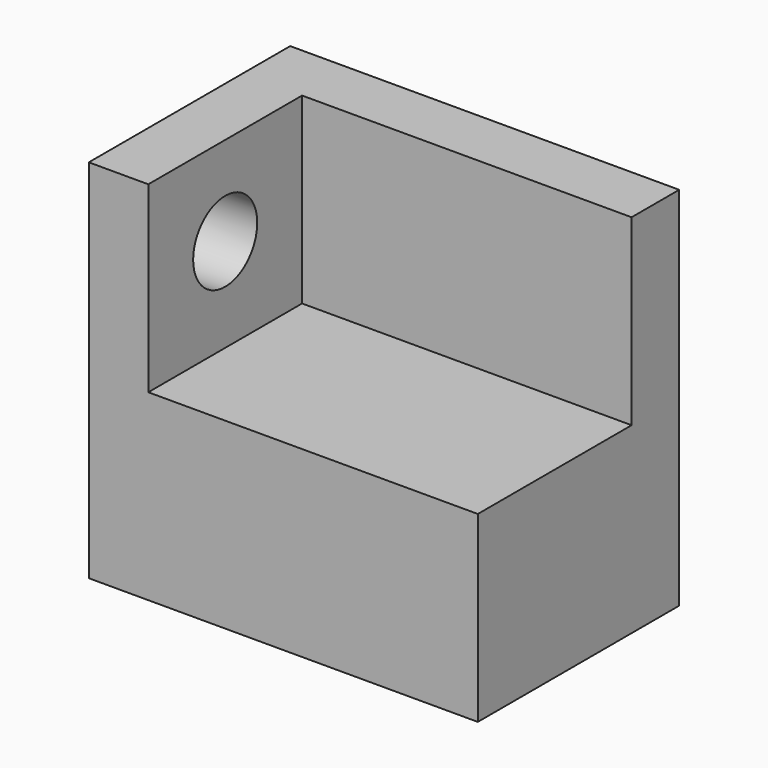
from build123d import *

# Parameters (mm, degrees)
F0_W     = 17
F0_H     = 8
F1_DEPTH = 11
F3_DEPTH = 8
F5_D     = 3.5


with BuildPart() as f1:
    # F0 (on Front) → F1 (new body)
    with BuildSketch(Plane.XZ):
        with Locations((8.5, 4)):
            Rectangle(F0_W, F0_H)
    extrude(amount=F1_DEPTH)

    # F2 (on face) → F3 (join)
    with BuildSketch(Plane.XY.offset(8)):
        Polygon((0, -11), (2.6, -11), (2.6, -2.6), (17, -2.6), (17, 0), (0, 0), align=None)
    extrude(amount=F3_DEPTH)

    # F5 (through all)
    with Locations(Plane.YZ.offset(2.6)):
        with Locations((-6.8, 12.1)):
            Hole(F5_D / 2)


solid = f1.part
